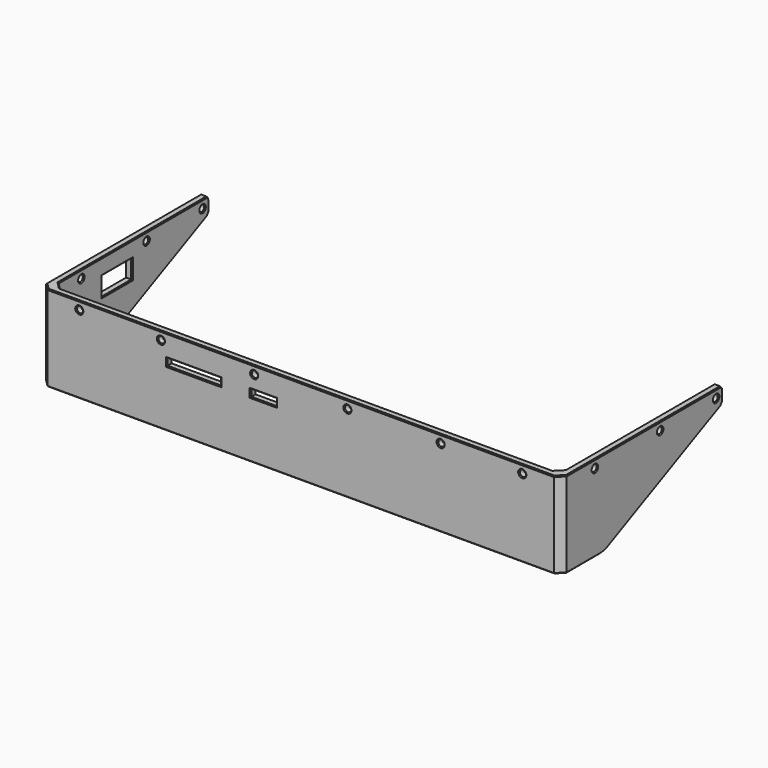
from build123d import *

# Parameters (mm, degrees)
PAD007_DEPTH               = 37
CHAMFER011013_SIZE         = 3
SKETCH041_W                = 11
SKETCH041_H                = 3
SKETCH041_W_2              = 23
POCKET014_DEPTH            = 11.301
SKETCH042_R                = 1.35
POCKET015_DEPTH            = 11.301
SKETCH043_R                = 1.35
POCKET016_DEPTH            = 111.651
POCKET016_DEPTH_BACK       = 111.651
POCKET017_DEPTH            = 111.651
POCKET017_DEPTH_BACK       = 111.651
CHAMFER011014_SIZE         = 1
CHAMFER011015_SIZE         = 1
FILLET003_R                = 10
SKETCH045_W                = 16
SKETCH045_H                = 8
POCKET018_DEPTH            = 111.651
CHAMFER011020_SIZE         = 0.4
BODY006009_PLACEMENT_ANGLE = 180


with BuildPart() as part:
    # Sketch040 → Pad007 (new body)
    with BuildSketch(Plane.XY):
        Polygon((-108.65, -18.5), (-108.65, 65.15), (108.65, 65.15), (108.65, -18.5), (111.65, -18.5), (111.65, 68.15), (-111.65, 68.15), (-111.65, -18.5), align=None)
    extrude(amount=-PAD007_DEPTH)

    # Chamfer011013
    chamfer011013_edges = [part.edges().sort_by_distance(p)[0] for p in [
        (-108.65, 65.15, -18.5),
        (108.65, 65.15, -18.5),
        (111.65, 68.15, -18.5),
        (-111.65, 68.15, -18.5),
    ]]
    chamfer(chamfer011013_edges, length=CHAMFER011013_SIZE)

    # Sketch041 (on DatumPlane) → Pocket014 (cut, through all)
    with BuildSketch(Plane.XZ.offset(-56.85)):
        with Locations((16, -11)):
            Rectangle(SKETCH041_W, SKETCH041_H)
        with Locations((46, -11)):
            Rectangle(SKETCH041_W_2, SKETCH041_H)
    extrude(amount=-POCKET014_DEPTH, mode=Mode.SUBTRACT)

    # Sketch042 (on DatumPlane) → Pocket015 (cut, through all)
    with BuildSketch(Plane.XZ.offset(-56.85)):
        with Locations((-95, -3.5)):
            Circle(SKETCH042_R)
        with Locations((-60, -3.5)):
            Circle(SKETCH042_R)
        with Locations((-20, -3.5)):
            Circle(SKETCH042_R)
        with Locations((20, -3.5)):
            Circle(SKETCH042_R)
        with Locations((60, -3.5)):
            Circle(SKETCH042_R)
        with Locations((95, -3.5)):
            Circle(SKETCH042_R)
    extrude(amount=-POCKET015_DEPTH, mode=Mode.SUBTRACT)

    # Sketch043 → Pocket016 (cut, two sides)
    with BuildSketch(Plane.YZ) as pocket016_sk:
        with Locations((-15, -3.5)):
            Circle(SKETCH043_R)
        with Locations((15, -3.5)):
            Circle(SKETCH043_R)
        with Locations((50, -3.5)):
            Circle(SKETCH043_R)
    extrude(amount=-POCKET016_DEPTH, mode=Mode.SUBTRACT)
    extrude(pocket016_sk.sketch, amount=POCKET016_DEPTH_BACK, mode=Mode.SUBTRACT)

    # Sketch044 → Pocket017 (cut, two sides)
    with BuildSketch(Plane.YZ) as pocket017_sk:
        Polygon((-18.5, -7), (45, -37), (-18.5, -37), align=None)
    extrude(amount=-POCKET017_DEPTH, mode=Mode.SUBTRACT)
    extrude(pocket017_sk.sketch, amount=POCKET017_DEPTH_BACK, mode=Mode.SUBTRACT)

    # Chamfer011014
    chamfer011014_edges = [part.edges().sort_by_distance(p)[0] for p in [
        (110.15, -18.5, 0),
        (-110.15, -18.5, 0),
    ]]
    chamfer(chamfer011014_edges, length=CHAMFER011014_SIZE)

    # Chamfer011015
    chamfer011015_edges = [part.edges().sort_by_distance(p)[0] for p in [
        (110.15, -18.5, -7),
        (-110.15, -18.5, -7),
    ]]
    chamfer(chamfer011015_edges, length=CHAMFER011015_SIZE)

    # Fillet003
    fillet003_edges = [part.edges().sort_by_distance(p)[0] for p in [
        (110.15, 45, -37),
        (-110.15, 45, -37),
    ]]
    fillet(fillet003_edges, radius=FILLET003_R)

    # Sketch045 → Pocket018 (cut, through all)
    with BuildSketch(Plane.YZ):
        with Locations((30.75, -11)):
            Rectangle(SKETCH045_W, SKETCH045_H)
    extrude(amount=POCKET018_DEPTH, mode=Mode.SUBTRACT)

    # Chamfer011020
    chamfer011020_edges = [part.edges().sort_by_distance(p)[0] for p in [
        (111.65, -18.5, -3.5),
        (111.65, -16.35, -3.5),
        (108.65, -16.35, -3.5),
        (111.65, 23.825, 0),
        (111.65, -18, -0.5),
        (111.65, -18.047914, -6.713584),
        (110.15, -18.5, -1),
        (108.65, -18.5, -3.5),
        (108.65, -18.047914, -6.713584),
        (108.65, 12.687909, -21.734445),
        (111.65, 12.687909, -21.734445),
        (111.65, 48.65, -3.5),
        (108.65, 48.65, -3.5),
        (111.65, 13.65, -3.5),
        (108.65, 13.65, -3.5),
        (110.15, 66.65, 0),
        (108.65, 45.054403, -36.75749),
        (111.65, 45.054403, -36.75749),
        (108.65, 54.696663, -37),
        (111.65, 56.196663, -37),
        (110.15, 66.65, -37),
        (107.15, 63.65, -37),
        (0, 65.15, -37),
        (0, 68.15, -37),
        (-107.15, 63.65, -37),
        (-110.15, 66.65, -37),
        (-111.65, 56.196663, -37),
        (-108.65, 54.696663, -37),
        (-108.65, 45.054403, -36.75749),
        (-111.65, 45.054403, -36.75749),
        (-111.65, 12.687909, -21.734445),
        (-108.65, 12.687909, -21.734445),
        (-108.65, -18.047914, -6.713584),
        (-111.65, -18.047914, -6.713584),
        (-108.65, -18.5, -3.5),
        (-111.65, -18.5, -3.5),
        (-111.65, -16.35, -3.5),
        (-108.65, -16.35, -3.5),
        (-111.65, 13.65, -3.5),
        (-108.65, 13.65, -3.5),
        (-108.65, 48.65, -3.5),
        (-111.65, 48.65, -3.5),
        (-96.35, 65.15, -3.5),
        (-61.35, 65.15, -3.5),
        (93.65, 65.15, -3.5),
        (58.65, 65.15, -3.5),
        (18.65, 65.15, -3.5),
        (-21.35, 65.15, -3.5),
        (107.15, 63.65, 0),
        (108.65, 22.325, 0),
        (108.65, -18, -0.5),
        (0, 68.15, 0),
        (0, 65.15, 0),
        (-107.15, 63.65, 0),
        (-110.15, 66.65, 0),
        (-111.65, 23.825, 0),
        (-108.65, 22.325, 0),
        (-108.65, -18, -0.5),
        (-111.65, -18, -0.5),
        (-96.35, 68.15, -3.5),
        (-61.35, 68.15, -3.5),
        (-21.35, 68.15, -3.5),
        (18.65, 68.15, -3.5),
        (58.65, 68.15, -3.5),
        (93.65, 68.15, -3.5),
        (111.65, 38.75, -11),
        (111.65, 30.75, -7),
        (111.65, 22.75, -11),
        (111.65, 30.75, -15),
        (34.5, 68.15, -11),
        (46, 68.15, -12.5),
        (46, 68.15, -9.5),
        (57.5, 68.15, -11),
        (10.5, 68.15, -11),
        (16, 68.15, -12.5),
        (16, 68.15, -9.5),
        (21.5, 68.15, -11),
        (108.65, 30.75, -7),
        (108.65, 22.75, -11),
        (108.65, 30.75, -15),
        (108.65, 38.75, -11),
        (16, 65.15, -12.5),
        (10.5, 65.15, -11),
        (16, 65.15, -9.5),
        (21.5, 65.15, -11),
        (34.5, 65.15, -11),
        (46, 65.15, -12.5),
        (46, 65.15, -9.5),
        (57.5, 65.15, -11),
    ]]
    chamfer(chamfer011020_edges, length=CHAMFER011020_SIZE)


with BuildPart() as part_1:
    # Body006009 placement: moved
    add(part.part.moved(Location((0, 0, 17))).rotate(Axis((0, 0, 17), (0, 0, 1)), BODY006009_PLACEMENT_ANGLE))


solid = part_1.part
